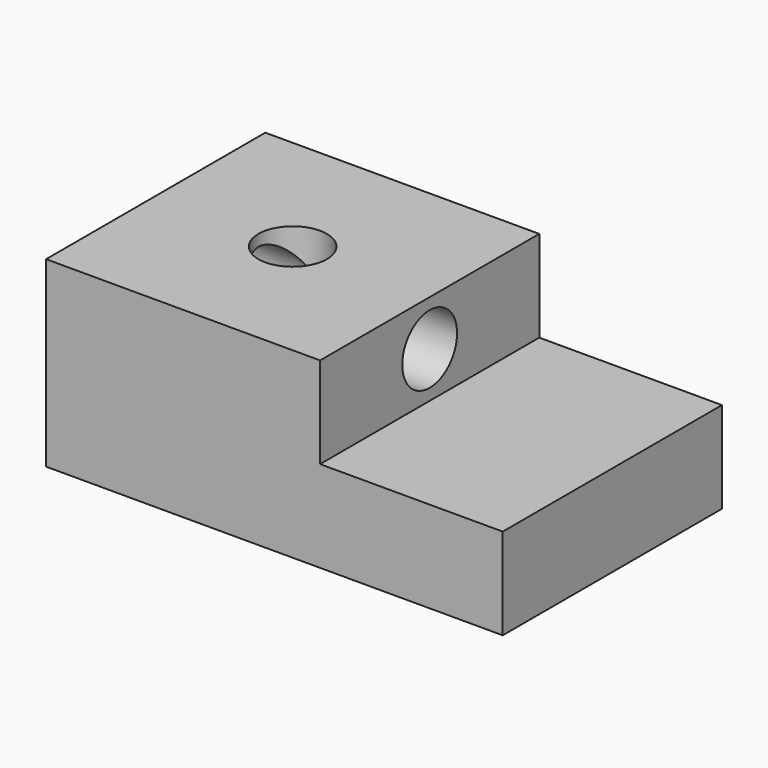
from build123d import *

# Parameters (mm, degrees)
F1_DEPTH = 76.2
F3_D     = 19.05
F5_D     = 19.05


with BuildPart() as f1:
    # F0 (on Front) → F1 (new body)
    with BuildSketch(Plane.XZ):
        Polygon((0, 50.8), (0, 0), (127, 0), (127, 25.4), (76.2, 25.4), (76.2, 50.8), align=None)
    extrude(amount=F1_DEPTH)

    # F3 (through all)
    with Locations(Plane.YZ.offset(76.2)):
        with Locations((-38.1, 38.1)):
            Hole(F3_D / 2)

    # F5 (through all)
    with Locations(Plane.XY.offset(50.8)):
        with Locations((38.1, -38.1)):
            Hole(F5_D / 2)


solid = f1.part
